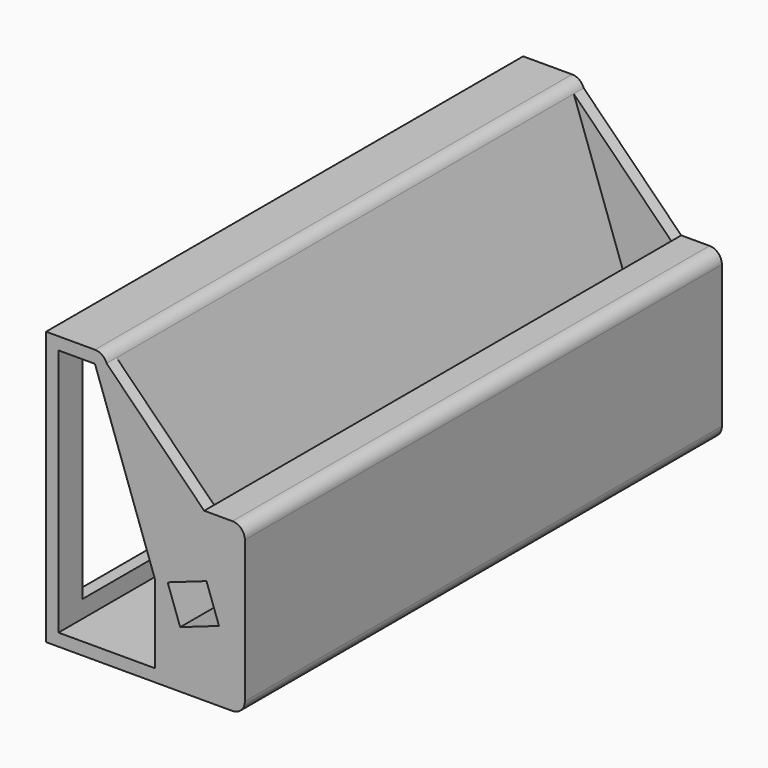
from build123d import *

# Parameters (mm, degrees)
F1_DEPTH  = 240
F2_DEPTH  = 5
F5_DEPTH  = 260
F6_DEPTH  = 252
F8_DEPTH  = 5
F10_DEPTH = 5


with BuildPart() as f1:
    # F0 (on Front) → F1 (new body)
    with BuildSketch(Plane.XZ):
        with BuildLine():
            Line((-91.99476, 48.640542), (-111.663712, 48.640542))
            Line((-111.663712, 48.640542), (-111.663712, -61.359458))
            Line((-111.663712, -61.359458), (-36.663712, -61.359458))
            ThreePointArc((-36.663712, -61.359458), (-33.128178, -59.894992), (-31.663712, -56.359458))
            Line((-31.663712, -56.359458), (-31.663712, 0.890209))
            ThreePointArc((-31.663712, 0.890209), (-33.128178, 4.425743), (-36.663712, 5.890209))
            Line((-36.663712, 5.890209), (-48.030325, 5.890209))
            Line((-48.030325, 5.890209), (-48.030325, -12.867237))
            Line((-48.030325, -12.867237), (-64.685345, -18.742749))
            Line((-64.685345, -18.742749), (-87.279566, 45.303955))
            ThreePointArc((-87.279566, 45.303955), (-89.106601, 47.722028), (-91.99476, 48.640542))
        make_face()
    extrude(amount=F1_DEPTH)

    # F0 (on Front) → F2 (join)
    with BuildSketch(Plane.XZ):
        Polygon((-48.030325, 5.890209), (-87.279566, 45.303955), (-64.685345, -18.742749), (-48.030325, -12.867237), align=None)
    extrude(amount=F2_DEPTH)

    # F4 (on face) → F5 (cut)
    with BuildSketch(Plane.XZ.offset(240)):
        Polygon((-91.99476, 43.640542), (-106.663712, 43.640542), (-106.663712, -56.359458), (-67.737126, -56.359458), (-67.737126, -25.121357), align=None)
    extrude(amount=-F5_DEPTH, mode=Mode.SUBTRACT)

    # F3 (on face) → F6 (cut)
    with BuildSketch(Plane.XZ.offset(240)):
        Polygon((-47.102027, -18.742749), (-62.739263, -24.259211), (-57.695907, -38.493532), (-42.078068, -32.983914), align=None)
    extrude(amount=-F6_DEPTH, mode=Mode.SUBTRACT)

    # F7 (on face) → F8 (join)
    with BuildSketch(Plane.XZ.offset(240)):
        Polygon((-48.030325, -12.867237), (-48.030325, 5.890209), (-87.279566, 45.303955), (-64.685345, -18.742749), align=None)
    extrude(amount=-F8_DEPTH)

    # F9 (on face) → F10 (cut)
    with BuildSketch(Plane(origin=(-111.663712, 0, 0), x_dir=(0, -1, 0), z_dir=(-1, 0, 0))):
        Polygon((227.999998, -49.359457), (227.999998, 36.64054), (12.000002, 36.64054), (12.000002, 5.890209), (12.000002, 0.890209), (12.000002, -49.359457), align=None)
    extrude(amount=-F10_DEPTH, mode=Mode.SUBTRACT)


solid = f1.part
